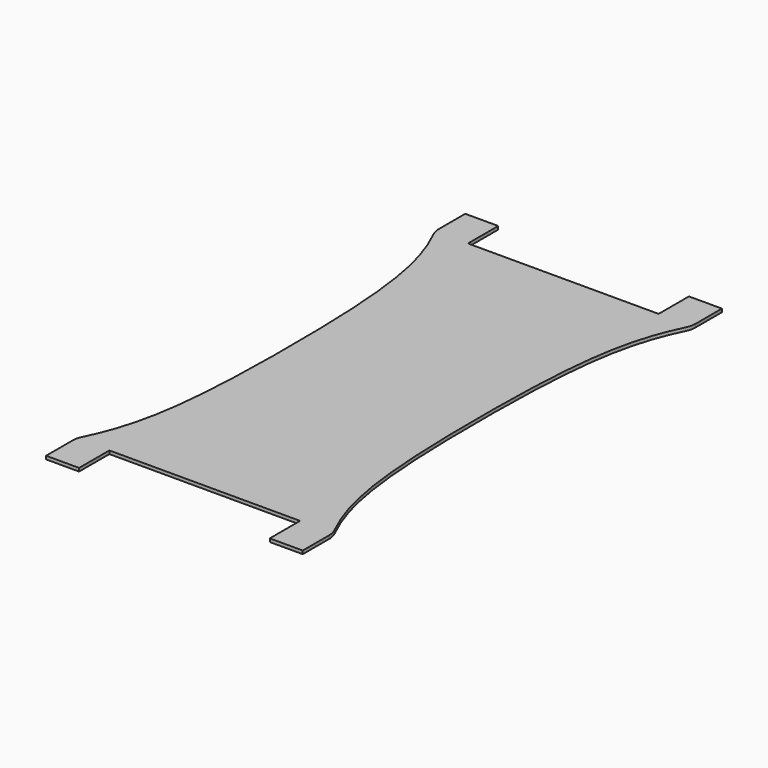
from build123d import *

# Parameters (mm, degrees)
F1_DEPTH = 3


with BuildPart() as f1:
    # F0 (on Top) → F1 (new body)
    with BuildSketch(Plane.XY):
        with BuildLine():
            Line((-88.135, -242.185), (-88.135, -207.185))
            Line((-88.135, -207.185), (0, -207.185))
            Line((0, -207.185), (88.135, -207.185))
            Line((88.135, -207.185), (88.135, -242.185))
            Line((88.135, -242.185), (118.63, -242.185))
            Line((118.63, -242.185), (118.63, -211.8296730702))
            ThreePointArc((118.63, -211.8296730702), (118.1268934633, -207.3719667901), (116.642885472, -203.1385306268))
            add(Edge.make_bspline(
                [(88.135, 0), (88.135, -124.4332938681), (98.4746011799, -165.483731352), (116.642885472, -203.1385306268)],
                knots=[0, 0, 0, 0, 0.5908453027, 0.5908453027, 0.5908453027, 0.5908453027], degree=3))
            add(Edge.make_bspline(
                [(88.135, 0), (88.135, 124.4332938681), (98.4746011799, 165.483731352), (116.642885472, 203.1385306268)],
                knots=[0, 0, 0, 0, 0.5908453027, 0.5908453027, 0.5908453027, 0.5908453027], degree=3))
            ThreePointArc((116.642885472, 203.1385306268), (118.1268934633, 207.3719667901), (118.63, 211.8296730702))
            Line((118.63, 211.8296730702), (118.63, 242.185))
            Line((118.63, 242.185), (88.135, 242.185))
            Line((88.135, 242.185), (88.135, 207.185))
            Line((88.135, 207.185), (0, 207.185))
            Line((0, 207.185), (-88.135, 207.185))
            Line((-88.135, 207.185), (-88.135, 242.185))
            Line((-88.135, 242.185), (-118.63, 242.185))
            Line((-118.63, 242.185), (-118.63, 211.8296730702))
            ThreePointArc((-118.63, 211.8296730702), (-118.1268934633, 207.3719667901), (-116.642885472, 203.1385306268))
            add(Edge.make_bspline(
                [(-88.135, 0), (-88.135, 124.4332938681), (-98.4746011799, 165.483731352), (-116.642885472, 203.1385306268)],
                knots=[0, 0, 0, 0, 0.5908453027, 0.5908453027, 0.5908453027, 0.5908453027], degree=3))
            add(Edge.make_bspline(
                [(-88.135, 0), (-88.135, -124.4332938681), (-98.4746011799, -165.483731352), (-116.642885472, -203.1385306268)],
                knots=[0, 0, 0, 0, 0.5908453027, 0.5908453027, 0.5908453027, 0.5908453027], degree=3))
            ThreePointArc((-116.642885472, -203.1385306268), (-118.1268934633, -207.3719667901), (-118.63, -211.8296730702))
            Line((-118.63, -211.8296730702), (-118.63, -242.185))
            Line((-118.63, -242.185), (-88.135, -242.185))
        make_face()
    extrude(amount=F1_DEPTH)


solid = f1.part
